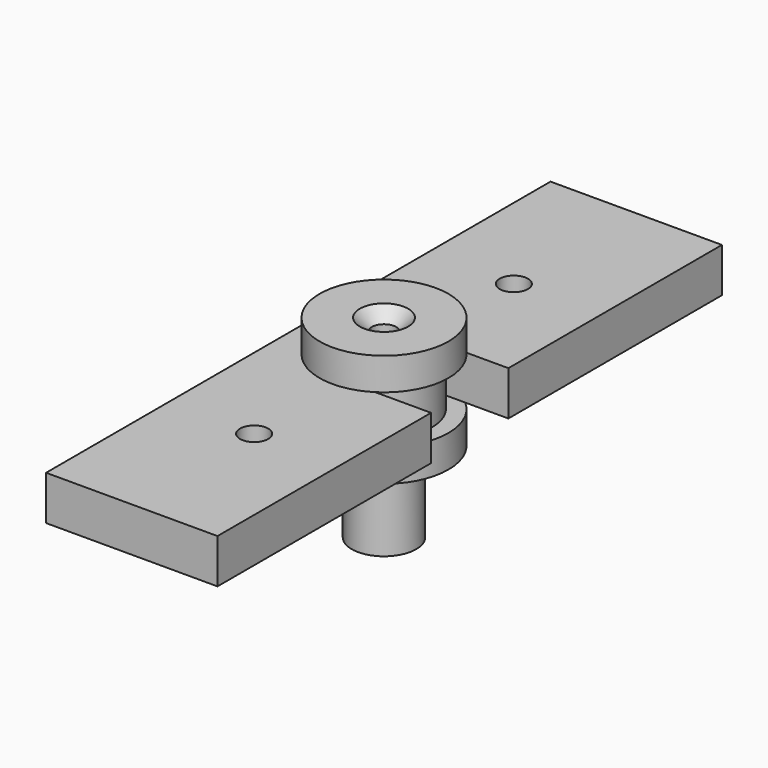
from build123d import *

# Parameters (mm, degrees)
F0_R      = 4
F0_R_2    = 1.5
F1_DEPTH  = 10
F2_R      = 8
F3_DEPTH  = 4
F4_R      = 6
F5_DEPTH  = 6
F6_R      = 8
F7_DEPTH  = 4
F8_DEPTH  = 24.001
F9_SIZE   = 1.5
F10_R     = 1.75
F11_DEPTH = 5.5
F12_SIZE  = 1.5


with BuildPart() as f1:
    # F0 (on Top) → F1 (new body)
    with BuildSketch(Plane.XY):
        Circle(F0_R)
        Circle(F0_R_2, mode=Mode.SUBTRACT)
        Circle(F0_R_2)
    extrude(amount=F1_DEPTH)

    # F2 (on face) → F3 (join)
    with BuildSketch(Plane.XY.offset(10)):
        Circle(F2_R)
    extrude(amount=F3_DEPTH)

    # F4 (on face) → F5 (join)
    with BuildSketch(Plane.XY.offset(14)):
        Circle(F4_R)
    extrude(amount=F5_DEPTH)

    # F6 (on face) → F7 (join)
    with BuildSketch(Plane.XY.offset(20)):
        Circle(F6_R)
    extrude(amount=F7_DEPTH)

    # F0 (on Top) → F8 (cut, through all)
    with BuildSketch(Plane.XY):
        Circle(F0_R_2)
    extrude(amount=F8_DEPTH, mode=Mode.SUBTRACT)

    # F9
    f9_edges = [f1.edges().sort_by_distance(p)[0] for p in [
        (-1.5, 0, 24),
    ]]
    chamfer(f9_edges, length=F9_SIZE)


with BuildPart() as f11:
    # F10 (on face) → F11 (new body)
    with BuildSketch(Plane.XY.offset(14)):
        with BuildLine():
            Line((-10.6372348964, 39.1267947853), (-10.6372348964, -39.1267947853))
            Line((-10.6372348964, -39.1267947853), (10.6372348964, -39.1267947853))
            Line((10.6372348964, -39.1267947853), (10.6372348964, -6))
            Line((10.6372348964, -6), (5.2915026221, -6))
            ThreePointArc((5.2915026221, -6), (-8, 0), (5.2915026221, 6))
            Line((5.2915026221, 6), (10.6372348964, 6))
            Line((10.6372348964, 6), (10.6372348964, 39.1267947853))
            Line((10.6372348964, 39.1267947853), (-10.6372348964, 39.1267947853))
        make_face()
        with Locations((0, -20.1431717724)):
            Circle(F10_R, mode=Mode.SUBTRACT)
        with Locations((0, 20.1431717724)):
            Circle(F10_R, mode=Mode.SUBTRACT)
        with BuildLine():
            ThreePointArc((5.2915026221, 6), (-8, 0), (5.2915026221, -6))
            Line((5.2915026221, -6), (0, -6))
            ThreePointArc((0, -6), (-6, 0), (0, 6))
            Line((0, 6), (5.2915026221, 6))
        make_face()
    extrude(amount=F11_DEPTH)

    # F12
    f12_edges = [f11.edges().sort_by_distance(p)[0] for p in [
        (-1.75, 20.143172, 14),
        (-1.75, -20.143172, 14),
    ]]
    chamfer(f12_edges, length=F12_SIZE)


solid = Compound([f1.part, f11.part])
